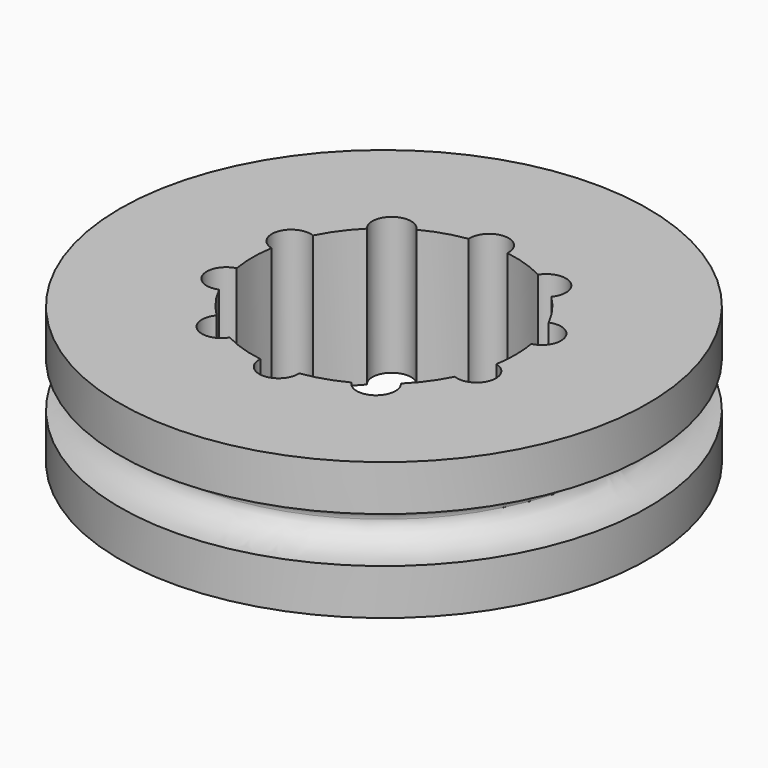
from build123d import *

# Parameters (mm, degrees)
F4_DEPTH = 9.907
F5_R     = 17.05
F5_R_2   = 15.9037
F5_R_3   = 13.9037
F5_R_4   = 12.9
F6_DEPTH = 1


with BuildPart() as f1:
    # F0 (on Front) → F1 (revolve)
    with BuildSketch(Plane.XZ):
        Polygon((0, 0), (0, 4.953), (-19.05, 4.953), (-19.05, 1.651), (-16.51, 1.651), (-16.51, 0), align=None)
        with BuildLine():
            Line((-16.51, 1.651), (-19.05, 1.651))
            add(Edge.make_bspline(
                [(-19.05, 1.651), (-17.78, 1.651), (-16.51, 0.8255), (-16.51, 0)],
                knots=[0, 0, 0, 0, 3.0294225522, 3.0294225522, 3.0294225522, 3.0294225522], degree=3))
            Line((-16.51, 0), (-16.51, 1.651))
        make_face()
    revolve(axis=Axis((0, 0, 11.7816049606), (0, 0, 1)))

    # F2: F1 across plane


with BuildPart() as f1_1:
    add(f1.part)
    add(f1.part.mirror(Plane.XY))

    # F3 (on face) → F4 (cut, through all)
    with BuildSketch(Plane.XY.offset(4.953)):
        with BuildLine():
            ThreePointArc((9.3683756747, -1.5759242424), (9.4670367304, -0.790705726), (9.5, 0))
            ThreePointArc((9.5, 0), (9.4670367304, 0.790705726), (9.3683756747, 1.5759242424))
            ThreePointArc((9.3683756747, 1.5759242424), (7.703557782, 2.5030376544), (8.5054801589, 4.2316435656))
            ThreePointArc((8.5054801589, 4.2316435656), (7.6856614466, 5.5839598968), (6.6528701021, 6.7815425534))
            ThreePointArc((6.6528701021, 6.7815425534), (4.7610605436, 6.5530376544), (4.3937803131, 8.4228673598))
            ThreePointArc((4.3937803131, 8.4228673598), (2.9356614466, 9.0350369048), (1.3961942733, 9.3968421053))
            ThreePointArc((1.3961942733, 9.3968421053), (0, 8.1), (-1.3961942733, 9.3968421053))
            ThreePointArc((-1.3961942733, 9.3968421053), (-2.9356614466, 9.0350369048), (-4.3937803131, 8.4228673598))
            ThreePointArc((-4.3937803131, 8.4228673598), (-4.2374363327, 8.068903265), (-4.1839598968, 7.6856614466))
            ThreePointArc((-4.1839598968, 7.6856614466), (-5.102542348, 6.371037111), (-6.6528701021, 6.7815425534))
            ThreePointArc((-6.6528701021, 6.7815425534), (-7.6856614466, 5.5839598968), (-8.5054801589, 4.2316435656))
            ThreePointArc((-8.5054801589, 4.2316435656), (-7.8728451297, 3.7162447399), (-7.6350369048, 2.9356614466))
            ThreePointArc((-7.6350369048, 2.9356614466), (-8.1709403471, 1.8341456097), (-9.3683756747, 1.5759242424))
            ThreePointArc((-9.3683756747, 1.5759242424), (-9.5, 0), (-9.3683756747, -1.5759242424))
            ThreePointArc((-9.3683756747, -1.5759242424), (-8.1709403471, -1.8341456097), (-7.6350369048, -2.9356614466))
            ThreePointArc((-7.6350369048, -2.9356614466), (-7.8728451297, -3.7162447399), (-8.5054801589, -4.2316435656))
            ThreePointArc((-8.5054801589, -4.2316435656), (-7.6856614466, -5.5839598968), (-6.6528701021, -6.7815425534))
            ThreePointArc((-6.6528701021, -6.7815425534), (-5.102542348, -6.371037111), (-4.1839598968, -7.6856614466))
            ThreePointArc((-4.1839598968, -7.6856614466), (-4.2374363327, -8.068903265), (-4.3937803131, -8.4228673598))
            ThreePointArc((-4.3937803131, -8.4228673598), (-2.9356614466, -9.0350369048), (-1.3961942733, -9.3968421053))
            ThreePointArc((-1.3961942733, -9.3968421053), (0, -8.1), (1.3961942733, -9.3968421053))
            ThreePointArc((1.3961942733, -9.3968421053), (2.9356614466, -9.0350369048), (4.3937803131, -8.4228673598))
            ThreePointArc((4.3937803131, -8.4228673598), (4.7610605436, -6.5530376544), (6.6528701021, -6.7815425534))
            ThreePointArc((6.6528701021, -6.7815425534), (7.6856614466, -5.5839598968), (8.5054801589, -4.2316435656))
            ThreePointArc((8.5054801589, -4.2316435656), (7.703557782, -2.5030376544), (9.3683756747, -1.5759242424))
        make_face()
        with BuildLine():
            ThreePointArc((8.5054801589, 4.2316435656), (7.703557782, 2.5030376544), (9.3683756747, 1.5759242424))
            ThreePointArc((9.3683756747, 1.5759242424), (9.0350369048, 2.9356614466), (8.5054801589, 4.2316435656))
        make_face()
        with BuildLine():
            ThreePointArc((8.5054801589, 4.2316435656), (9.0350369048, 2.9356614466), (9.3683756747, 1.5759242424))
            ThreePointArc((9.3683756747, 1.5759242424), (10.1365527417, 2.0715648888), (10.4350369048, 2.9356614466))
            ThreePointArc((10.4350369048, 2.9356614466), (9.8156201982, 4.0978532217), (8.5054801589, 4.2316435656))
        make_face()
        with BuildLine():
            ThreePointArc((10.4350369048, -2.9356614466), (10.1365527417, -2.0715648888), (9.3683756747, -1.5759242424))
            ThreePointArc((9.3683756747, -1.5759242424), (9.0350369048, -2.9356614466), (8.5054801589, -4.2316435656))
            ThreePointArc((8.5054801589, -4.2316435656), (9.8156201982, -4.0978532217), (10.4350369048, -2.9356614466))
        make_face()
        with BuildLine():
            ThreePointArc((8.5054801589, -4.2316435656), (9.0350369048, -2.9356614466), (9.3683756747, -1.5759242424))
            ThreePointArc((9.3683756747, -1.5759242424), (7.703557782, -2.5030376544), (8.5054801589, -4.2316435656))
        make_face()
        with BuildLine():
            ThreePointArc((4.3937803131, 8.4228673598), (4.7610605436, 6.5530376544), (6.6528701021, 6.7815425534))
            ThreePointArc((6.6528701021, 6.7815425534), (5.5839598968, 7.6856614466), (4.3937803131, 8.4228673598))
        make_face()
        with BuildLine():
            ThreePointArc((4.3937803131, 8.4228673598), (5.5839598968, 7.6856614466), (6.6528701021, 6.7815425534))
            ThreePointArc((6.6528701021, 6.7815425534), (6.8985842324, 7.2042438978), (6.9839598968, 7.6856614466))
            ThreePointArc((6.9839598968, 7.6856614466), (5.9672017152, 9.0321850106), (4.3937803131, 8.4228673598))
        make_face()
        with BuildLine():
            ThreePointArc((6.9839598968, -7.6856614466), (6.8985842324, -7.2042438978), (6.6528701021, -6.7815425534))
            ThreePointArc((6.6528701021, -6.7815425534), (5.5839598968, -7.6856614466), (4.3937803131, -8.4228673598))
            ThreePointArc((4.3937803131, -8.4228673598), (5.9672017152, -9.0321850106), (6.9839598968, -7.6856614466))
        make_face()
        with BuildLine():
            ThreePointArc((4.3937803131, -8.4228673598), (5.5839598968, -7.6856614466), (6.6528701021, -6.7815425534))
            ThreePointArc((6.6528701021, -6.7815425534), (4.7610605436, -6.5530376544), (4.3937803131, -8.4228673598))
        make_face()
        with BuildLine():
            ThreePointArc((-1.3961942733, 9.3968421053), (0, 8.1), (1.3961942733, 9.3968421053))
            ThreePointArc((1.3961942733, 9.3968421053), (0, 9.5), (-1.3961942733, 9.3968421053))
        make_face()
        with BuildLine():
            ThreePointArc((-1.3961942733, 9.3968421053), (0, 9.5), (1.3961942733, 9.3968421053))
            ThreePointArc((1.3961942733, 9.3968421053), (1.3990482448, 9.4483859641), (1.4, 9.5))
            ThreePointArc((1.4, 9.5), (-0.0516140359, 10.8990482448), (-1.3961942733, 9.3968421053))
        make_face()
        with BuildLine():
            ThreePointArc((1.4, -9.5), (1.3990482448, -9.4483859641), (1.3961942733, -9.3968421053))
            ThreePointArc((1.3961942733, -9.3968421053), (0, -9.5), (-1.3961942733, -9.3968421053))
            ThreePointArc((-1.3961942733, -9.3968421053), (-0.0516140359, -10.8990482448), (1.4, -9.5))
        make_face()
        with BuildLine():
            ThreePointArc((-1.3961942733, -9.3968421053), (0, -9.5), (1.3961942733, -9.3968421053))
            ThreePointArc((1.3961942733, -9.3968421053), (0, -8.1), (-1.3961942733, -9.3968421053))
        make_face()
        with BuildLine():
            ThreePointArc((-4.1839598968, 7.6856614466), (-4.2374363327, 8.068903265), (-4.3937803131, 8.4228673598))
            ThreePointArc((-4.3937803131, 8.4228673598), (-5.5839598968, 7.6856614466), (-6.6528701021, 6.7815425534))
            ThreePointArc((-6.6528701021, 6.7815425534), (-5.102542348, 6.371037111), (-4.1839598968, 7.6856614466))
        make_face()
        with BuildLine():
            ThreePointArc((-6.6528701021, 6.7815425534), (-5.5839598968, 7.6856614466), (-4.3937803131, 8.4228673598))
            ThreePointArc((-4.3937803131, 8.4228673598), (-6.40685925, 8.8182852387), (-6.6528701021, 6.7815425534))
        make_face()
        with BuildLine():
            ThreePointArc((-6.6528701021, -6.7815425534), (-6.40685925, -8.8182852387), (-4.3937803131, -8.4228673598))
            ThreePointArc((-4.3937803131, -8.4228673598), (-5.5839598968, -7.6856614466), (-6.6528701021, -6.7815425534))
        make_face()
        with BuildLine():
            ThreePointArc((-6.6528701021, -6.7815425534), (-5.5839598968, -7.6856614466), (-4.3937803131, -8.4228673598))
            ThreePointArc((-4.3937803131, -8.4228673598), (-4.2374363327, -8.068903265), (-4.1839598968, -7.6856614466))
            ThreePointArc((-4.1839598968, -7.6856614466), (-5.102542348, -6.371037111), (-6.6528701021, -6.7815425534))
        make_face()
        with BuildLine():
            ThreePointArc((-7.6350369048, 2.9356614466), (-7.8728451297, 3.7162447399), (-8.5054801589, 4.2316435656))
            ThreePointArc((-8.5054801589, 4.2316435656), (-9.0350369048, 2.9356614466), (-9.3683756747, 1.5759242424))
            ThreePointArc((-9.3683756747, 1.5759242424), (-8.1709403471, 1.8341456097), (-7.6350369048, 2.9356614466))
        make_face()
        with BuildLine():
            ThreePointArc((-9.3683756747, 1.5759242424), (-9.0350369048, 2.9356614466), (-8.5054801589, 4.2316435656))
            ThreePointArc((-8.5054801589, 4.2316435656), (-10.3665160276, 3.3682852387), (-9.3683756747, 1.5759242424))
        make_face()
        with BuildLine():
            ThreePointArc((-9.3683756747, -1.5759242424), (-10.3665160276, -3.3682852387), (-8.5054801589, -4.2316435656))
            ThreePointArc((-8.5054801589, -4.2316435656), (-9.0350369048, -2.9356614466), (-9.3683756747, -1.5759242424))
        make_face()
        with BuildLine():
            ThreePointArc((-9.3683756747, -1.5759242424), (-9.0350369048, -2.9356614466), (-8.5054801589, -4.2316435656))
            ThreePointArc((-8.5054801589, -4.2316435656), (-7.8728451297, -3.7162447399), (-7.6350369048, -2.9356614466))
            ThreePointArc((-7.6350369048, -2.9356614466), (-8.1709403471, -1.8341456097), (-9.3683756747, -1.5759242424))
        make_face()
    extrude(amount=-F4_DEPTH, mode=Mode.SUBTRACT)

    # F5 (on face) → F6 (cut)
    with BuildSketch(Plane(origin=(0, 0, -4.953), x_dir=(1, 0, 0), z_dir=(0, 0, -1))):
        Circle(F5_R)
        Circle(F5_R_2, mode=Mode.SUBTRACT)
        Circle(F5_R_3)
        Circle(F5_R_4, mode=Mode.SUBTRACT)
    extrude(amount=-F6_DEPTH, mode=Mode.SUBTRACT)


solid = f1_1.part
